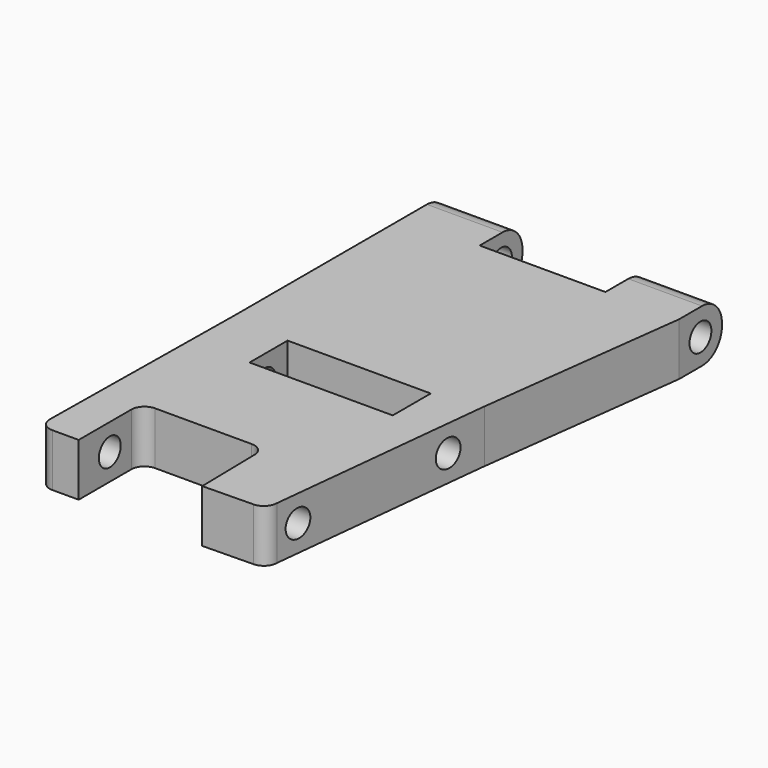
from build123d import *

# Parameters (mm, degrees)
F1_DEPTH = 6.35
F3_D     = 3.3
F4_R     = 2.99974
F5_W     = 17.2659438103
F5_H     = 5.7261204347
F6_DEPTH = 6.35
F8_D     = 3.3
F10_D    = 3.3


with BuildPart() as f1:
    # F0 (on Top) → F1 (new body)
    with BuildSketch(Plane.XY):
        Polygon((-40.1544658885, 51.4584925147), (-49.2730658885, 51.4584925147), (-49.2730658885, 19.7084925147), (-19.3046238273, 19.7084925147), (-16.1006658885, 45.0133569539), (-16.1006658885, 51.4584925147), (-24.9906658885, 51.4584925147), (-24.9906658885, 45.0133569539), (-40.1544658885, 45.0133569539), align=None)
    extrude(amount=F1_DEPTH)

    # F3 (through all)
    with Locations(Plane.YZ.offset(-16.1006658885)):
        with Locations((48.2228761828, 3.1560653739)):
            Hole(F3_D / 2)

    # F4
    f4_edges = [f1.edges().sort_by_distance(p)[0] for p in [
        (-20.545666, 51.458493, 0),
        (-20.545666, 51.458493, 6.35),
        (-44.713766, 51.458493, 0),
        (-44.713766, 51.458493, 6.35),
    ]]
    fillet(f4_edges, radius=F4_R)

    # F5 (on Top) → F6 (join)
    with BuildSketch(Plane.XY):
        with BuildLine():
            Line((-48.0508575901, -9.525), (-44.8758575901, -9.525))
            Line((-44.8758575901, -9.525), (-44.8758575901, -1.5875))
            ThreePointArc((-44.8758575901, -1.5875), (-44.4108896053, -0.4649679849), (-43.2883575901, 0))
            Line((-43.2883575901, 0), (-31.6287431982, 0))
            ThreePointArc((-31.6287431982, 0), (-30.5254053426, -0.4511271755), (-30.0542057782, -1.54604321))
            Line((-30.0542057782, -1.54604321), (-29.9068968743, -9.6117341891))
            Line((-29.9068968743, -9.6117341891), (-23.7938760812, -9.5000881572))
            ThreePointArc((-23.7938760812, -9.5000881572), (-22.7076296204, -9.03764911), (-22.248025792, -7.9502))
            Line((-22.248025792, -7.9502), (-19.3092767149, 19.7430392682))
            Line((-19.3092767149, 19.7430392682), (-49.2723993957, 19.7069626302))
            Line((-49.2723993957, 19.7069626302), (-49.6256575901, -7.9502))
            ThreePointArc((-49.6256575901, -7.9502), (-49.1644093491, -9.063751759), (-48.0508575901, -9.525))
        make_face()
        with Locations((-33.5407005623, 15.7169797458)):
            Rectangle(F5_W, F5_H, mode=Mode.SUBTRACT)
    extrude(amount=F6_DEPTH)

    # F8 (through all)
    with Locations(Plane(origin=(-49.516033415, 0.6324562209, 0), x_dir=(-0.0127717144, -0.9999184383, 0), z_dir=(-0.9999184383, 0.0127717144, 0))):
        with Locations((5.4090460762, 3.175)):
            Hole(F8_D / 2)

    # F10 (through all)
    with Locations(Plane(origin=(-49.516033415, 0.6324562209, 0), x_dir=(-0.0127717144, -0.9999184383, 0), z_dir=(-0.9999184383, 0.0127717144, 0))):
        with Locations((-14.6038243547, 3.1806000043)):
            Hole(F10_D / 2)


solid = f1.part
